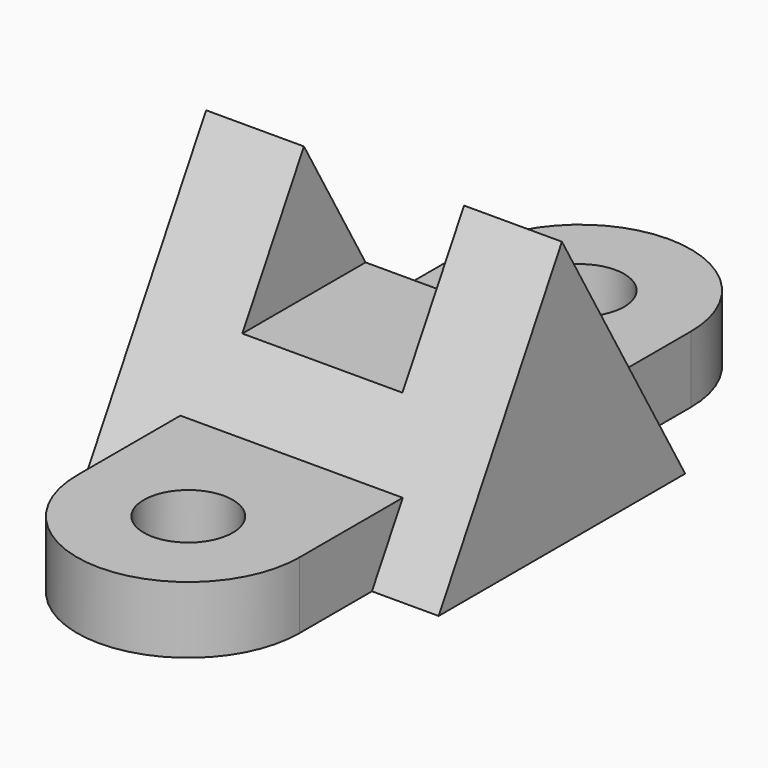
from build123d import *

# Parameters (mm, degrees)
F0_R          = 10
F1_DEPTH      = 15
F3_DEPTH      = 40
F3_DEPTH_BACK = 40
F4_W          = 36
F4_H          = 30
F5_DEPTH      = 50
F5_DEPTH_BACK = 25


with BuildPart() as f1:
    # F0 (on Top) → F1 (new body)
    with BuildSketch(Plane.XY):
        with BuildLine():
            ThreePointArc((-25, -55), (0, -80), (25, -55))
            ThreePointArc((25, -55), (0, -30), (-25, -55))
        make_face()
        with Locations((0, -55)):
            Circle(F0_R, mode=Mode.SUBTRACT)
        with BuildLine():
            Line((25, -55), (25, 55))
            ThreePointArc((25, 55), (0, 30), (-25, 55))
            Line((-25, 55), (-25, -55))
            ThreePointArc((-25, -55), (0, -30), (25, -55))
        make_face()
        with BuildLine():
            ThreePointArc((-25, 55), (0, 30), (25, 55))
            ThreePointArc((25, 55), (0, 80), (-25, 55))
        make_face()
        with Locations((0, 55)):
            Circle(F0_R, mode=Mode.SUBTRACT)
    extrude(amount=-F1_DEPTH)

    # F2 (on Right) → F3 (join, two sides)
    with BuildSketch(Plane.YZ) as f3_sk:
        Polygon((0, -15), (34.6410161514, -15), (0, 45), (-34.6410161514, -15), align=None)
    extrude(amount=F3_DEPTH)
    extrude(f3_sk.sketch, amount=-F3_DEPTH_BACK)

    # F4 (on Front) → F5 (cut, two sides)
    with BuildSketch(Plane.XZ) as f5_sk:
        with Locations((0, 30)):
            Rectangle(F4_W, F4_H)
    extrude(amount=-F5_DEPTH, mode=Mode.SUBTRACT)
    extrude(f5_sk.sketch, amount=F5_DEPTH_BACK, mode=Mode.SUBTRACT)


solid = f1.part
